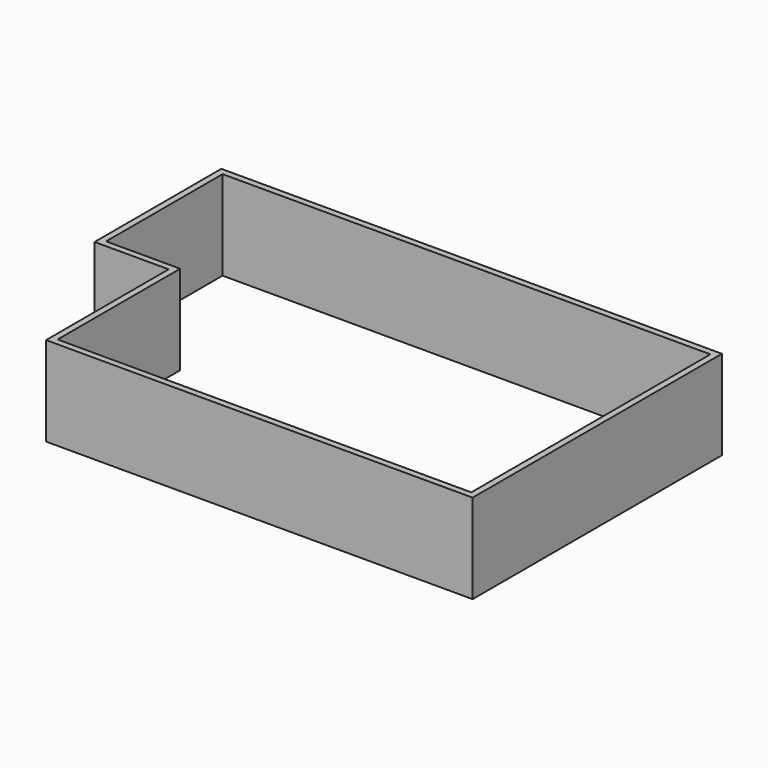
from build123d import *

# Parameters (mm, degrees)
F1_DEPTH = 2133.6


with BuildPart() as f1:
    # F0 (on Top) → F1 (new body)
    with BuildSketch(Plane.XY):
        Polygon((35576.256, 2880.36), (35576.256, 10317.48), (23628.096, 10317.48), (23628.096, 6537.96), (25395.936, 6537.96), (25395.936, 5059.497356), (25395.936, 2880.36), align=None)
        Polygon((25548.336, 3032.76), (25548.336, 6690.36), (23780.496, 6690.36), (23780.496, 10165.08), (35423.856, 10165.08), (35423.856, 3032.76), align=None, mode=Mode.SUBTRACT)
    extrude(amount=F1_DEPTH)


solid = f1.part
